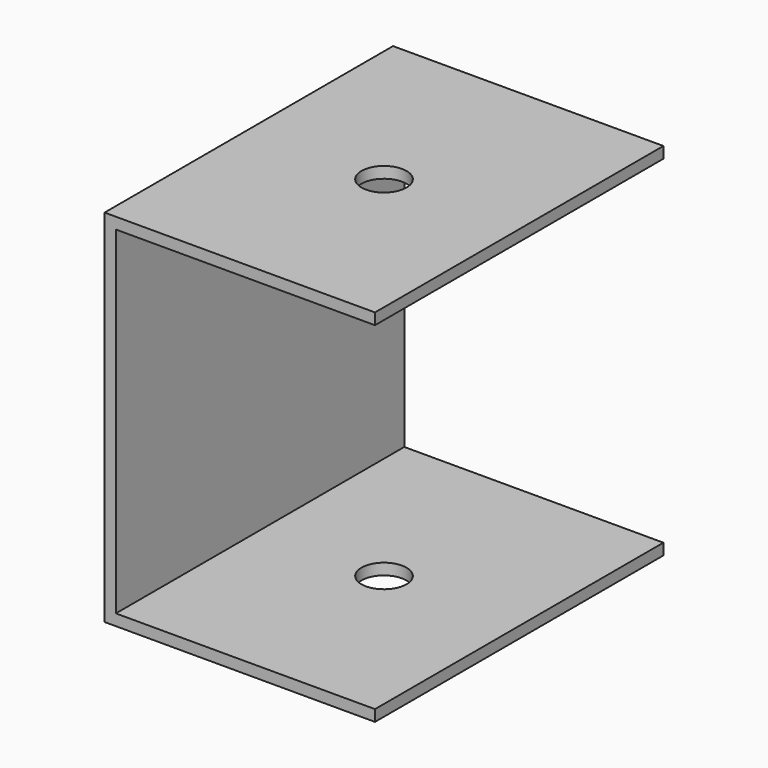
from build123d import *

# Parameters (mm, degrees)
F1_DEPTH = 50.8
F2_R     = 6.35
F3_DEPTH = 101.601


with BuildPart() as f1:
    # F0 (on Front) → F1 (new body, symmetric)
    with BuildSketch(Plane.XZ):
        Polygon((38.1, 47.625), (38.1, 50.8), (-38.1, 50.8), (-38.1, -50.8), (38.1, -50.8), (38.1, -47.625), (-34.925, -47.625), (-34.925, 47.625), align=None)
    extrude(amount=F1_DEPTH, both=True)

    # F2 (on face) → F3 (cut, through all)
    with BuildSketch(Plane(origin=(0, 0, -50.8), x_dir=(1, 0, 0), z_dir=(0, 0, -1))):
        Circle(F2_R)
    extrude(amount=-F3_DEPTH, mode=Mode.SUBTRACT)


solid = f1.part
